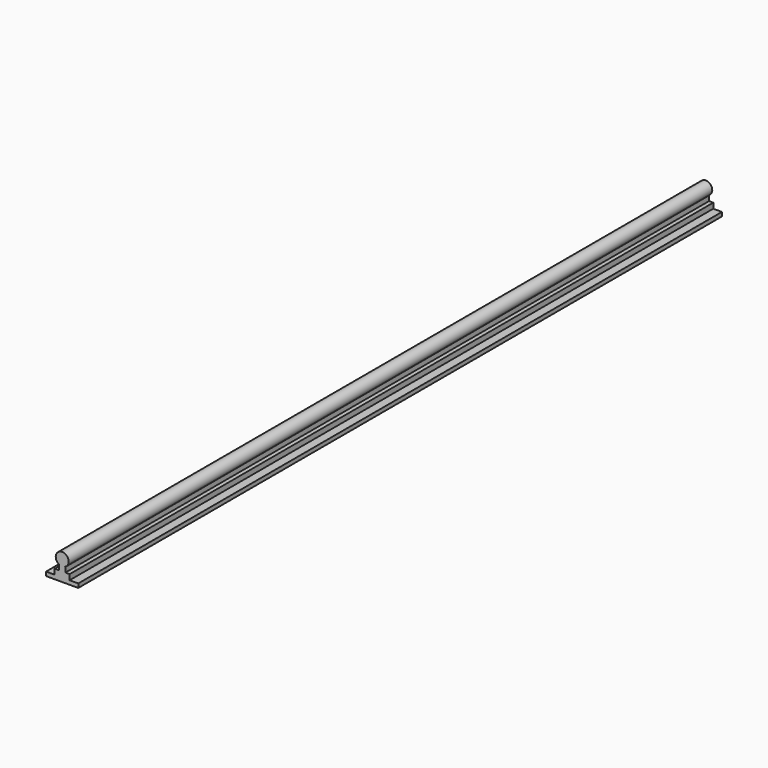
from build123d import *

# Parameters (mm, degrees)
F1_DEPTH = 1000


with BuildPart() as f1:
    # F0 (on Front) → F1 (new body)
    with BuildSketch(Plane.XZ):
        with BuildLine():
            Line((-33.991796, -5.594154), (-33.991796, -10.594154))
            Line((-33.991796, -10.594154), (6.008204, -10.594154))
            Line((6.008204, -10.594154), (6.008204, -5.594154))
            Line((6.008204, -5.594154), (-4.741796, -5.594154))
            Line((-4.741796, -5.594154), (-4.741796, 1.051143))
            Line((-4.741796, 1.051143), (-9.991796, 1.051143))
            Line((-9.991796, 1.051143), (-9.991796, 7.205846))
            Line((-9.991796, 7.205846), (-10.504677, 7.205846))
            ThreePointArc((-10.504677, 7.205846), (-13.991796, 22.405846), (-17.478915, 7.205846))
            Line((-17.478915, 7.205846), (-17.991796, 7.205846))
            Line((-17.991796, 7.205846), (-17.991796, 1.051143))
            Line((-17.991796, 1.051143), (-23.241796, 1.051143))
            Line((-23.241796, 1.051143), (-23.241796, -5.594154))
            Line((-23.241796, -5.594154), (-33.991796, -5.594154))
        make_face()
    extrude(amount=F1_DEPTH)


solid = f1.part
